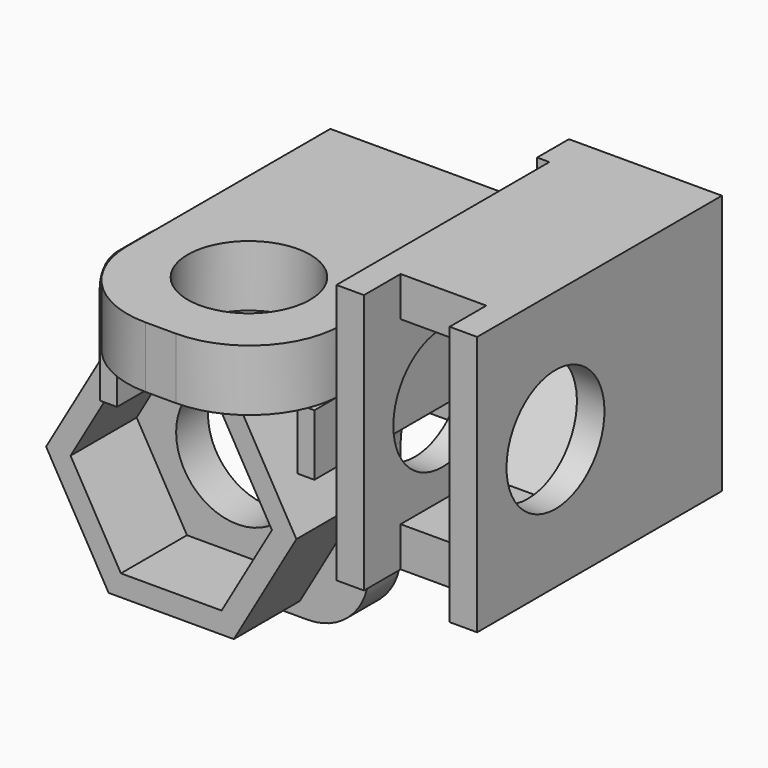
from build123d import *

# Parameters (mm, degrees)
SKETCH037_R     = 2
PAD022_DEPTH    = 1.3
PAD023_DEPTH    = 2.7
SKETCH039_W     = 7
SKETCH039_H     = 2
PAD024_DEPTH    = 10
SKETCH040_R     = 2
POCKET010_DEPTH = 2
SKETCH041_W     = 8.5
SKETCH041_H     = 8.9
SKETCH041_R     = 2
PAD025_DEPTH    = 5
POCKET011_START = -0.9
POCKET011_DEPTH = 2.8
SKETCH043_W     = 4.5
SKETCH043_H     = 4.5
POCKET012_DEPTH = 1.301
FILLET005_R     = 2
FILLET006_R     = 1.7
FILLET007_R     = 3
SKETCH052_W     = 5
SKETCH052_H     = 8.5
POCKET017_DEPTH = 0.2
SKETCH053_W     = 0.4
SKETCH053_H     = 8.5
POCKET018_DEPTH = 8.7
PAD031_DEPTH    = 2


with BuildPart() as obj1:
    # Sketch037 → Pad022 (new body)
    with BuildSketch(Plane.XZ):
        Polygon((4.5, -4), (-4.3, -4), (-4.3, 3.24), (-14.8, 3.24), (-14.8, 7.49), (-14.8, 11.74), (-9.8, 11.74), (-9.8, 9.5), (2.5, 9.5), (2.5, 5), (4.5, 5), align=None)
        Circle(SKETCH037_R, mode=Mode.SUBTRACT)
    extrude(amount=PAD022_DEPTH)

    # Sketch038 (on Face14 of Pad022) → Pad023 (join)
    with BuildSketch(Plane.XZ.offset(1.3)):
        Polygon((-4.090897, 0), (-2.045448, -3.54282), (2.045448, -3.54282), (4.090897, 0), (2.045448, 3.54282), (-2.045448, 3.54282), align=None)
        Polygon((-3.290897, 0), (-1.645448, -2.85), (1.645448, -2.85), (3.290897, 0), (1.645448, 2.85), (-1.645448, 2.85), align=None, mode=Mode.SUBTRACT)
    extrude(amount=PAD023_DEPTH)

    # Sketch039 (on Face5 of Pad023) → Pad024 (join)
    with BuildSketch(Plane.XZ.offset(1.3)):
        with Locations((-5.5, 8.5)):
            Rectangle(SKETCH039_W, SKETCH039_H)
    extrude(amount=PAD024_DEPTH)

    # Sketch040 (on Face24 of Pad024) → Pocket010 (cut)
    with BuildSketch(Plane(origin=(0, 0, 9.5), x_dir=(-1, 0, 0), z_dir=(0, 0, 1))):
        with Locations((5.5, 7.7)):
            Circle(SKETCH040_R)
    extrude(amount=-POCKET010_DEPTH, mode=Mode.SUBTRACT)

    # Sketch041 (on Face6 of Pocket010) → Pad025 (join)
    with BuildSketch(Plane(origin=(-14.8, 0, 0), x_dir=(0, 0, -1), z_dir=(-1, 0, 0))):
        with Locations((-7.49, 5.75)):
            Rectangle(SKETCH041_W, SKETCH041_H)
        with Locations((-7.49, 6.8)):
            Circle(SKETCH041_R, mode=Mode.SUBTRACT)
    extrude(amount=-PAD025_DEPTH)

    # Sketch042 (on Face7 of Pad025) → Pocket011 (cut)
    with BuildSketch(Plane(origin=(-14.8, 0, 0), x_dir=(0, 0, -1), z_dir=(-1, 0, 0)).offset(POCKET011_START)):
        Polygon((-10.44, 8.503183), (-11.74, 8.503183), (-11.74, 10.2), (-3.24, 10.2), (-3.24, 8.503183), (-4.54, 8.503183), (-4.54, 5.096817), (-7.49, 3.393633), (-10.44, 5.096817), align=None)
    extrude(amount=-POCKET011_DEPTH, mode=Mode.SUBTRACT)

    # Sketch043 (on Face24 of Pocket011) → Pocket012 (cut, through all)
    with BuildSketch(Plane.XZ.offset(1.3)):
        with Locations((0.25, 7.25)):
            Rectangle(SKETCH043_W, SKETCH043_H)
    extrude(amount=-POCKET012_DEPTH, mode=Mode.SUBTRACT)

    # Fillet005
    fillet005_edges = [obj1.edges().sort_by_distance(p)[0] for p in [
        (-2, -0.65, 5),
        (4.5, -0.65, -4),
        (-4.3, -0.65, -4),
        (-4.3, -0.65, 3.24),
    ]]
    fillet(fillet005_edges, radius=FILLET005_R)

    # Fillet006
    fillet006_edges = [obj1.edges().sort_by_distance(p)[0] for p in [
        (4.5, -0.65, 5),
    ]]
    fillet(fillet006_edges, radius=FILLET006_R)

    # Fillet007
    fillet007_edges = [obj1.edges().sort_by_distance(p)[0] for p in [
        (-9, -11.3, 8.5),
        (-2, -11.3, 8.5),
    ]]
    fillet(fillet007_edges, radius=FILLET007_R)

    # Sketch052 (on Face43 of Fillet007) → Pocket017 (cut)
    with BuildSketch(Plane.XZ.offset(10.2)):
        with Locations((-12.3, 7.49)):
            Rectangle(SKETCH052_W, SKETCH052_H)
    extrude(amount=-POCKET017_DEPTH, mode=Mode.SUBTRACT)

    # Sketch053 (on Face37 of Pocket017) → Pocket018 (cut)
    with BuildSketch(Plane.XZ.offset(10)):
        with Locations((-10, 7.49)):
            Rectangle(SKETCH053_W, SKETCH053_H)
    extrude(amount=-POCKET018_DEPTH, mode=Mode.SUBTRACT)

    # Sketch055 (on Face2 of Pocket018) → Pad031 (join)
    with BuildSketch(Plane(origin=(0, 0, 7.5), x_dir=(1, 0, 0), z_dir=(0, 0, -1))):
        Polygon((-8.45, 9.403183), (-8.45, 5.996817), (-5.5, 4.293633), (-2.55, 5.996817), (-2.55, 9.403183), (-2, 9.403183), (-2, 1.3), (-9, 1.3), (-9, 9.403183), align=None)
    extrude(amount=PAD031_DEPTH)


with BuildPart() as obj1_1:
    # Body024 placement: moved
    add(obj1.part.moved(Location((-21.5, 36.8, 85))))


with BuildPart() as part_mirroring001:
    # Part__Mirroring001: instance of obj1
    add(obj1_1.part.mirror(Plane(origin=(0, 0, 0), x_dir=(0, -1, 0), z_dir=(1, 0, 0))))


solid = part_mirroring001.part
